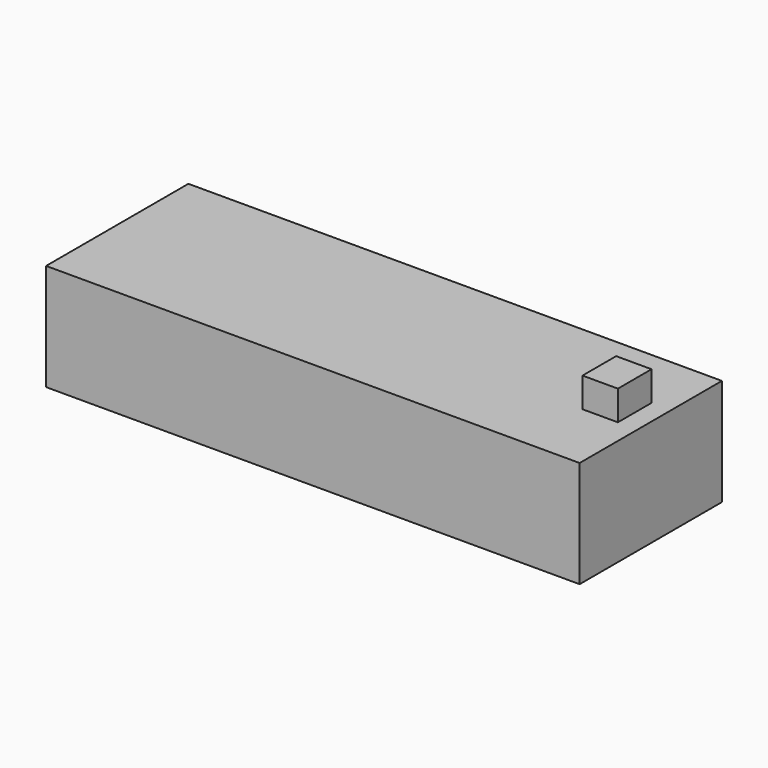
from build123d import *

# Parameters (mm, degrees)
F0_W          = 9144
F0_H          = 3048
F1_DEPTH      = 1828.8
F2_W          = 606.534242
F2_H          = 720.778525
F3_DEPTH      = 508
F3_DEPTH_BACK = 1219.2


with BuildPart() as f1:
    # F0 (on Top) → F1 (new body)
    with BuildSketch(Plane.XY):
        Rectangle(F0_W, F0_H)
    extrude(amount=-F1_DEPTH)


with BuildPart() as f3:
    # F2 (on face) → F3 (new body, two sides)
    with BuildSketch(Plane.XY) as f3_sk:
        with Locations((3931.622863, 77.037453)):
            Rectangle(F2_W, F2_H)
    extrude(amount=F3_DEPTH)
    extrude(f3_sk.sketch, amount=-F3_DEPTH_BACK)


solid = Compound([f1.part, f3.part])
